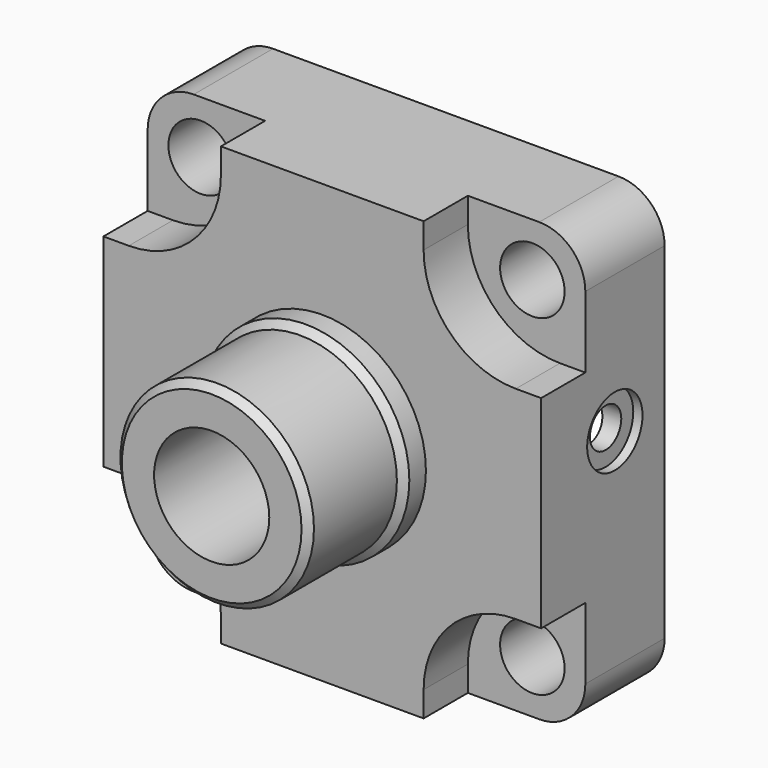
from build123d import *

# Parameters (mm, degrees)
F0_R      = 7
F1_DEPTH  = 16.75
F2_R      = 7
F3_DEPTH  = 12
F4_R      = 22.5
F5_DEPTH  = 6
F6_SIZE   = 1.5
F7_R      = 21
F8_DEPTH  = 24
F9_SIZE   = 1.5
F10_R     = 12.5
F11_DEPTH = 63.501
F12_R     = 42
F12_R_2   = 12.5
F13_DEPTH = 18
F14_R     = 7.5
F14_R_2   = 4.25
F15_DEPTH = 2
F16_DEPTH = 9


with BuildPart() as f1:
    # F0 (on Front) → F1 (new body, symmetric)
    with BuildSketch(Plane.XZ):
        with BuildLine():
            Line((-37.5, -47.5), (37.5, -47.5))
            ThreePointArc((37.5, -47.5), (44.5710678119, -44.5710678119), (47.5, -37.5))
            Line((47.5, -37.5), (47.5, 37.5))
            ThreePointArc((47.5, 37.5), (44.5710678119, 44.5710678119), (37.5, 47.5))
            Line((37.5, 47.5), (-37.5, 47.5))
            ThreePointArc((-37.5, 47.5), (-44.5710678119, 44.5710678119), (-47.5, 37.5))
            Line((-47.5, 37.5), (-47.5, -37.5))
            ThreePointArc((-47.5, -37.5), (-44.5710678119, -44.5710678119), (-37.5, -47.5))
        make_face()
        with Locations((-36, -36)):
            Circle(F0_R, mode=Mode.SUBTRACT)
        with Locations((36, -36)):
            Circle(F0_R, mode=Mode.SUBTRACT)
        with Locations((-36, 36)):
            Circle(F0_R, mode=Mode.SUBTRACT)
        with Locations((36, 36)):
            Circle(F0_R, mode=Mode.SUBTRACT)
    extrude(amount=F1_DEPTH, both=True)

    # F2 (on face) → F3 (cut)
    with BuildSketch(Plane.XZ.offset(16.75)):
        with BuildLine():
            Line((22, -42), (22, -47.5))
            Line((22, -47.5), (37.5, -47.5))
            ThreePointArc((37.5, -47.5), (44.5710678119, -44.5710678119), (47.5, -37.5))
            Line((47.5, -37.5), (47.5, -22))
            Line((47.5, -22), (42, -22))
            ThreePointArc((42, -22), (27.8578643763, -27.8578643763), (22, -42))
        make_face()
        with Locations((36, -36)):
            Circle(F2_R, mode=Mode.SUBTRACT)
        with BuildLine():
            Line((37.5, 47.5), (22, 47.5))
            Line((22, 47.5), (22, 42))
            ThreePointArc((22, 42), (27.8578643763, 27.8578643763), (42, 22))
            Line((42, 22), (47.5, 22))
            Line((47.5, 22), (47.5, 37.5))
            ThreePointArc((47.5, 37.5), (44.5710678119, 44.5710678119), (37.5, 47.5))
        make_face()
        with Locations((36, 36)):
            Circle(F2_R, mode=Mode.SUBTRACT)
        with BuildLine():
            Line((-47.5, 37.5), (-47.5, 22))
            Line((-47.5, 22), (-42, 22))
            ThreePointArc((-42, 22), (-27.8578643763, 27.8578643763), (-22, 42))
            Line((-22, 42), (-22, 47.5))
            Line((-22, 47.5), (-37.5, 47.5))
            ThreePointArc((-37.5, 47.5), (-44.5710678119, 44.5710678119), (-47.5, 37.5))
        make_face()
        with Locations((-36, 36)):
            Circle(F2_R, mode=Mode.SUBTRACT)
        with BuildLine():
            Line((-42, -22), (-47.5, -22))
            Line((-47.5, -22), (-47.5, -37.5))
            ThreePointArc((-47.5, -37.5), (-44.5710678119, -44.5710678119), (-37.5, -47.5))
            Line((-37.5, -47.5), (-22, -47.5))
            Line((-22, -47.5), (-22, -42))
            ThreePointArc((-22, -42), (-27.8578643763, -27.8578643763), (-42, -22))
        make_face()
        with Locations((-36, -36)):
            Circle(F2_R, mode=Mode.SUBTRACT)
    extrude(amount=-F3_DEPTH, mode=Mode.SUBTRACT)

    # F4 (on face) → F5 (join)
    with BuildSketch(Plane.XZ.offset(16.75)):
        Circle(F4_R)
    extrude(amount=F5_DEPTH)

    # F6
    f6_edges = [f1.edges().sort_by_distance(p)[0] for p in [
        (-22.5, -22.75, 0),
    ]]
    chamfer(f6_edges, length=F6_SIZE)

    # F7 (on face) → F8 (join)
    with BuildSketch(Plane.XZ.offset(22.75)):
        Circle(F7_R)
    extrude(amount=F8_DEPTH)

    # F9
    f9_edges = [f1.edges().sort_by_distance(p)[0] for p in [
        (-21, -46.75, 0),
    ]]
    chamfer(f9_edges, length=F9_SIZE)

    # F10 (on face) → F11 (cut, through all)
    with BuildSketch(Plane.XZ.offset(46.75)):
        Circle(F10_R)
    extrude(amount=-F11_DEPTH, mode=Mode.SUBTRACT)

    # F12 (on face) → F13 (cut)
    with BuildSketch(Plane(origin=(0, 16.75, 0), x_dir=(-1, 0, 0), z_dir=(0, 1, 0))):
        Circle(F12_R)
        Circle(F12_R_2, mode=Mode.SUBTRACT)
    extrude(amount=-F13_DEPTH, mode=Mode.SUBTRACT)

    # F14 (on face) → F15 (cut)
    with BuildSketch(Plane.YZ.offset(47.5)):
        with Locations((3.25, 7.547759451)):
            Circle(F14_R)
        with Locations((3.25, 7.547759451)):
            Circle(F14_R_2, mode=Mode.SUBTRACT)
    extrude(amount=-F15_DEPTH, mode=Mode.SUBTRACT)

    # F16 (cut): a face of the model
    f16_faces = [f1.faces().sort_by_distance(p)[0] for p in [
        (47.5, 3.25, 7.547759451),
    ]]
    extrude(f16_faces, amount=-F16_DEPTH, mode=Mode.SUBTRACT)


solid = f1.part
